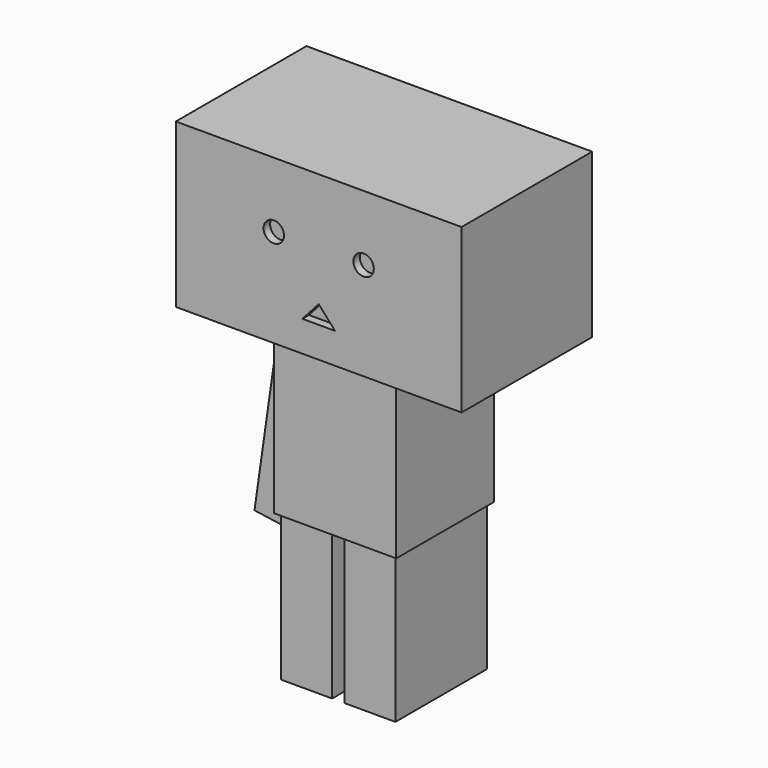
from build123d import *

# Parameters (mm, degrees)
F0_W      = 88.9
F0_H      = 50.8
F1_DEPTH  = 50.8
F3_R      = 3.175
F4_DEPTH  = 2.54
F5_W      = 38.1
F5_H      = 38.1
F6_DEPTH  = 50.8
F7_W      = 15.875
F7_H      = 35.56
F8_DEPTH  = 45.72
F9_W      = 12.7
F9_H      = 7.62
F10_DEPTH = 8.89
F11_T     = -1.27
F13_DEPTH = 25.4
F15_DEPTH = 12.7


with BuildPart() as f1:
    # F0 (on Front) → F1 (new body)
    with BuildSketch(Plane.XZ):
        with Locations((44.45, 25.4)):
            Rectangle(F0_W, F0_H)
    extrude(amount=F1_DEPTH)

    # F3 (on face) → F4 (cut)
    with BuildSketch(Plane.XZ.offset(50.8)):
        with Locations((30.48, 30.48)):
            Circle(F3_R)
        with Locations((58.42, 30.48)):
            Circle(F3_R)
        Polygon((49.53, 9.560387), (44.45, 15.24), (39.37, 9.560387), align=None)
    extrude(amount=-F4_DEPTH, mode=Mode.SUBTRACT)


with BuildPart() as f6:
    # F5 (on face) → F6 (new body)
    with BuildSketch(Plane(origin=(0, 0, 0), x_dir=(1, 0, 0), z_dir=(0, 0, -1))):
        with Locations((44.45, 25.4)):
            Rectangle(F5_W, F5_H)
    extrude(amount=F6_DEPTH)


with BuildPart() as f8:
    # F7 (on face) → F8 (new body)
    with BuildSketch(Plane(origin=(0, 0, -50.8), x_dir=(1, 0, 0), z_dir=(0, 0, -1))):
        with Locations((34.6075, 25.4)):
            Rectangle(F7_W, F7_H)
        with Locations((54.2925, 25.4)):
            Rectangle(F7_W, F7_H)
    extrude(amount=F8_DEPTH)


with BuildPart() as f10:
    # F9 (on face) → F10 (new body)
    with BuildSketch(Plane(origin=(25.4, 0, 0), x_dir=(0, -1, 0), z_dir=(-1, 0, 0))):
        with Locations((25.4, -6.35)):
            Rectangle(F9_W, F9_H)
    extrude(amount=F10_DEPTH)

    # F11
    f11_openings = [f10.faces().sort_by_distance(p)[0] for p in [
        (16.51, -25.4, -6.35),
    ]]
    offset(amount=F11_T, openings=f11_openings)

    # F12 (on face) → F13 (cut)
    with BuildSketch(Plane.XZ.offset(31.75)):
        Polygon((16.51, -6.35), (19.05, -2.54), (16.51, -2.54), align=None)
        Polygon((25.4, -10.16), (16.51, -8.89), (16.51, -10.16), align=None)
    extrude(amount=-F13_DEPTH, mode=Mode.SUBTRACT)


with BuildPart() as f15:
    # F14 (on face) → F15 (new body, through all)
    with BuildSketch(Plane.XZ.offset(31.75)):
        Polygon((25.4, -11.442894), (16.419744, -10.16), (9.235539, -60.449434), (18.215795, -61.732328), align=None)
    extrude(amount=-F15_DEPTH)


solid = Compound([f1.part, f6.part, f8.part, f10.part, f15.part])
